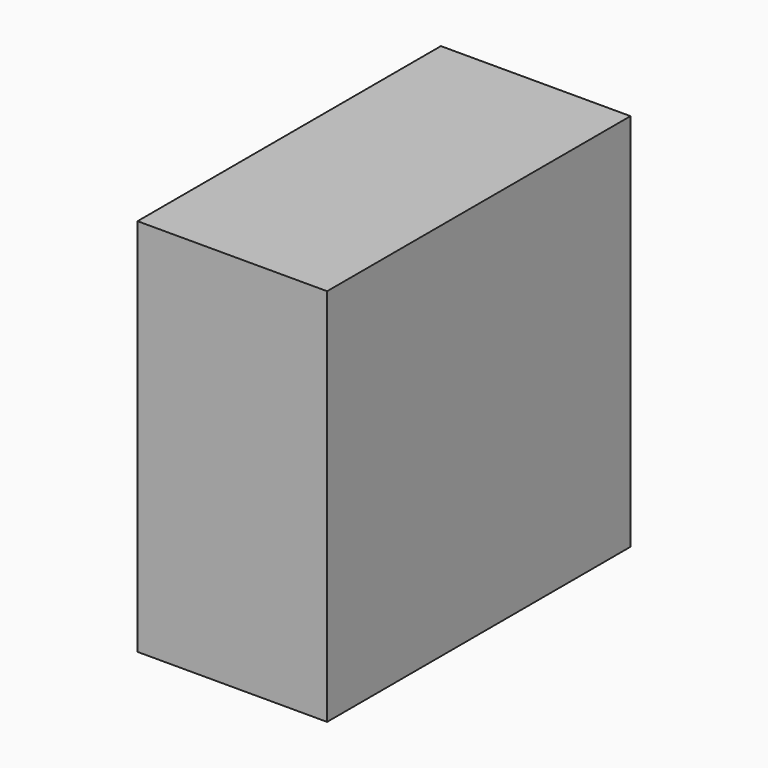
from build123d import *

# Parameters (mm, degrees)
F0_W          = 50
F0_H          = 100
F1_DEPTH      = 50
F1_DEPTH_BACK = 50
F3_D          = 11
F3_DEPTH      = 12
F3_TIP        = 3.3047334047


with BuildPart() as f1:
    # F0 (on Top) → F1 (new body, two sides)
    with BuildSketch(Plane.XY) as f1_sk:
        Rectangle(F0_W, F0_H)
    extrude(amount=F1_DEPTH)
    extrude(f1_sk.sketch, amount=-F1_DEPTH_BACK)

    # F3
    with Locations(Plane(origin=(-25, 0, 0), x_dir=(0, -1, 0), z_dir=(-1, 0, 0))):
        with Locations((-40, 35), (30, 26), (3.0545412681, 0), (30, -30), (-40, -30)):
            Hole(F3_D / 2, depth=F3_DEPTH)
            with Locations((0, 0, -(F3_DEPTH + F3_TIP / 2))):  # 118° drill point
                Cone(0, F3_D / 2, F3_TIP, mode=Mode.SUBTRACT)


solid = f1.part
